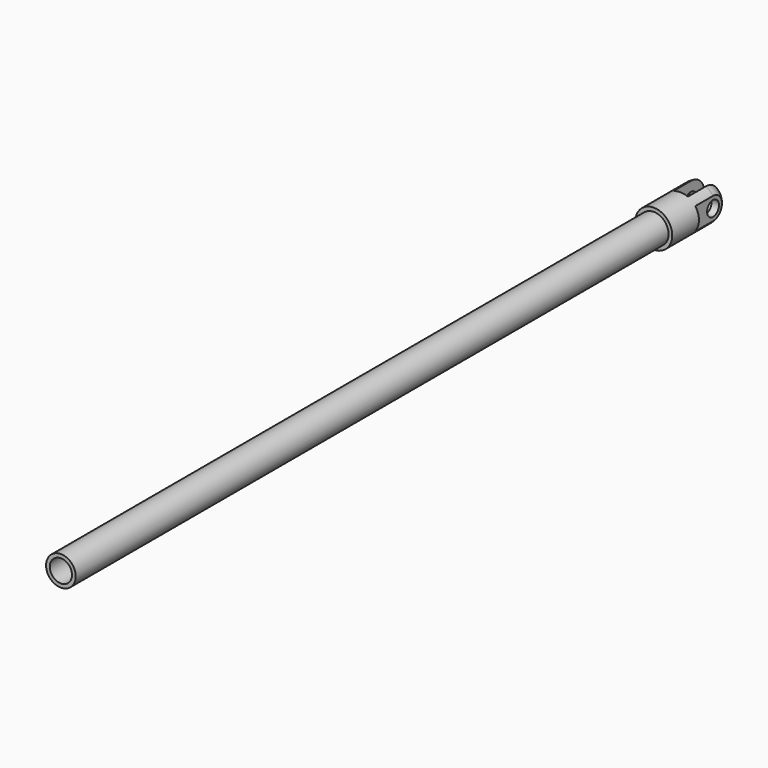
from build123d import *

# Parameters (mm, degrees)
F0_R      = 2
F1_DEPTH  = 50
F2_R      = 2.5
F3_DEPTH  = 7.5
F6_W      = 2
F6_H      = 10.465279
F6_W_2    = 2.670185
F6_H_2    = 9.38379
F6_W_3    = 2.059856
F6_H_3    = 11.232405
F7_DEPTH  = 12.5
F8_R      = 1
F9_DEPTH  = 4.501
F10_R     = 1.5
F11_DEPTH = 100


with BuildPart() as f1:
    # F0 (on Front) → F1 (new body, symmetric)
    with BuildSketch(Plane.XZ):
        Circle(F0_R)
    extrude(amount=F1_DEPTH, both=True)

    # F2 (on face) → F3 (join)
    with BuildSketch(Plane(origin=(0, 50, 0), x_dir=(-1, 0, 0), z_dir=(0, 1, 0))):
        Circle(F2_R)
    extrude(amount=F3_DEPTH)

    # F4 (on Top) → F5 (revolve)
    with BuildSketch(Plane.XY):
        with BuildLine():
            Line((0, 57.5), (2.5, 57.5))
            ThreePointArc((2.5, 57.5), (1.767767, 59.267767), (0, 60))
            Line((0, 60), (0, 57.5))
        make_face()
    revolve(axis=Axis((0, 58.75, 0), (0, 1, 0)))

    # F6 (on Top) → F7 (cut, symmetric)
    with BuildSketch(Plane.XY):
        with Locations((0, 59.732639)):
            Rectangle(F6_W, F6_H)
        with Locations((-3.335093, 59.191895)):
            Rectangle(F6_W_2, F6_H_2)
        with Locations((3.029928, 60.116202)):
            Rectangle(F6_W_3, F6_H_3)
    extrude(amount=F7_DEPTH, both=True, mode=Mode.SUBTRACT)

    # F8 (on face) → F9 (cut, through all)
    with BuildSketch(Plane.YZ.offset(2)):
        with Locations((57.5, 0)):
            Circle(F8_R)
    extrude(amount=-F9_DEPTH, mode=Mode.SUBTRACT)

    # F10 (on face) → F11 (cut)
    with BuildSketch(Plane.XZ.offset(50)):
        Circle(F10_R)
    extrude(amount=-F11_DEPTH, mode=Mode.SUBTRACT)


solid = f1.part
